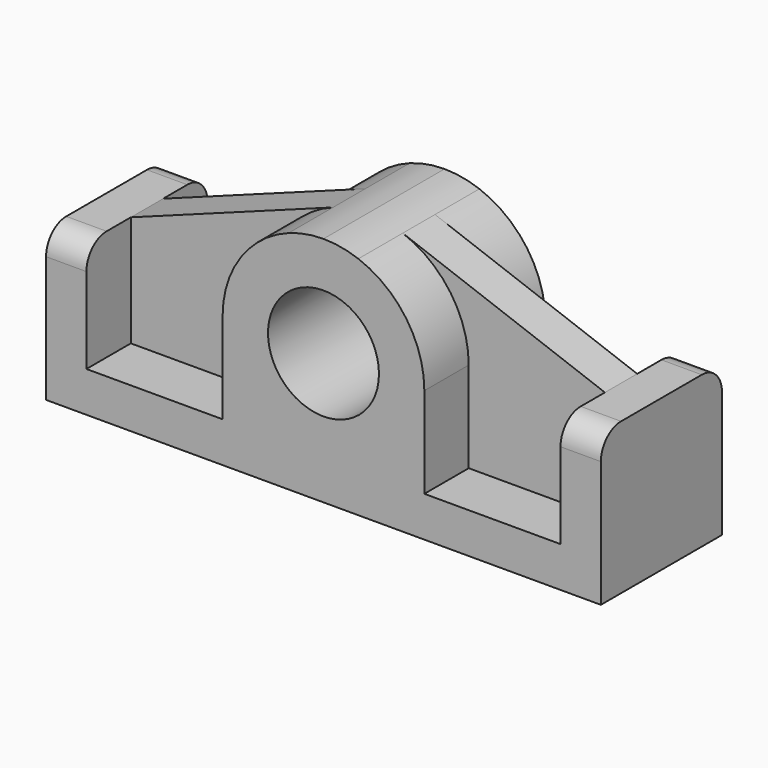
from build123d import *

# Parameters (mm, degrees)
F0_R     = 11
F1_DEPTH = 15
F2_DEPTH = 4
F3_R     = 5


with BuildPart() as f1:
    # F0 (on Front) → F1 (new body, symmetric)
    with BuildSketch(Plane.XZ):
        with BuildLine():
            Line((-55, 0), (0, 0))
            Line((0, 0), (55, 0))
            Line((55, 0), (55, 30))
            Line((55, 30), (47, 30))
            Line((47, 30), (47, 8))
            Line((47, 8), (20, 8))
            Line((20, 8), (20, 26))
            ThreePointArc((20, 26), (16.405315, 37.439651), (6.913438, 44.767109))
            ThreePointArc((6.913438, 44.767109), (3.511255, 45.689365), (0, 46))
            ThreePointArc((0, 46), (-3.511255, 45.689365), (-6.913438, 44.767109))
            ThreePointArc((-6.913438, 44.767109), (-16.405315, 37.439651), (-20, 26))
            Line((-20, 26), (-20, 8))
            Line((-20, 8), (-47, 8))
            Line((-47, 8), (-47, 30))
            Line((-47, 30), (-55, 30))
            Line((-55, 30), (-55, 0))
        make_face()
        with Locations((0, 26)):
            Circle(F0_R, mode=Mode.SUBTRACT)
    extrude(amount=F1_DEPTH, both=True)

    # F0 (on Front) → F2 (join, symmetric)
    with BuildSketch(Plane.XZ):
        with BuildLine():
            Line((-6.913438, 44.767109), (-47, 30))
            Line((-47, 30), (-47, 8))
            Line((-47, 8), (-20, 8))
            Line((-20, 8), (-20, 26))
            ThreePointArc((-20, 26), (-16.405315, 37.439651), (-6.913438, 44.767109))
        make_face()
        with BuildLine():
            Line((47, 8), (47, 30))
            Line((47, 30), (6.913438, 44.767109))
            ThreePointArc((6.913438, 44.767109), (16.405315, 37.439651), (20, 26))
            Line((20, 26), (20, 8))
            Line((20, 8), (47, 8))
        make_face()
    extrude(amount=F2_DEPTH, both=True)

    # F3
    f3_edges = [f1.edges().sort_by_distance(p)[0] for p in [
        (51, -15, 30),
        (-51, -15, 30),
        (-51, 15, 30),
        (51, 15, 30),
    ]]
    fillet(f3_edges, radius=F3_R)


solid = f1.part
